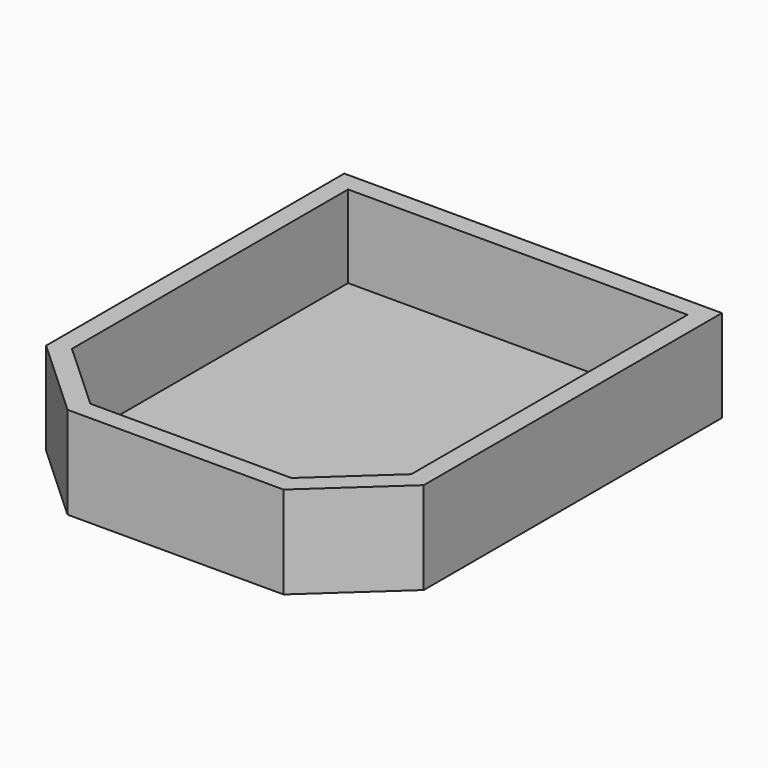
from build123d import *

# Parameters (mm, degrees)
F1_DEPTH = 76.2
F2_DEPTH = 635


with BuildPart() as f1:
    # F0 (on Top) → F1 (new body)
    with BuildSketch(Plane.XY):
        Polygon((2908.3, 0), (0, 0), (0, -2870.2), (622.3, -3441.7), (2286, -3441.7), (2908.3, -2870.2), align=None)
        Polygon((2228.616602, -3294.379998), (679.683398, -3294.379998), (147.320002, -2805.474838), (147.320002, -147.320002), (2760.979998, -147.320002), (2760.979998, -2805.474838), align=None, mode=Mode.SUBTRACT)
        Polygon((147.320002, -2805.474838), (679.683398, -3294.379998), (2228.616602, -3294.379998), (2760.979998, -2805.474838), (2760.979998, -147.320002), (147.320002, -147.320002), align=None)
    extrude(amount=-F1_DEPTH)

    # F0 (on Top) → F2 (join)
    with BuildSketch(Plane.XY):
        Polygon((2908.3, 0), (0, 0), (0, -2870.2), (622.3, -3441.7), (2286, -3441.7), (2908.3, -2870.2), align=None)
        Polygon((2228.616602, -3294.379998), (679.683398, -3294.379998), (147.320002, -2805.474838), (147.320002, -147.320002), (2760.979998, -147.320002), (2760.979998, -2805.474838), align=None, mode=Mode.SUBTRACT)
    extrude(amount=F2_DEPTH)


solid = f1.part
